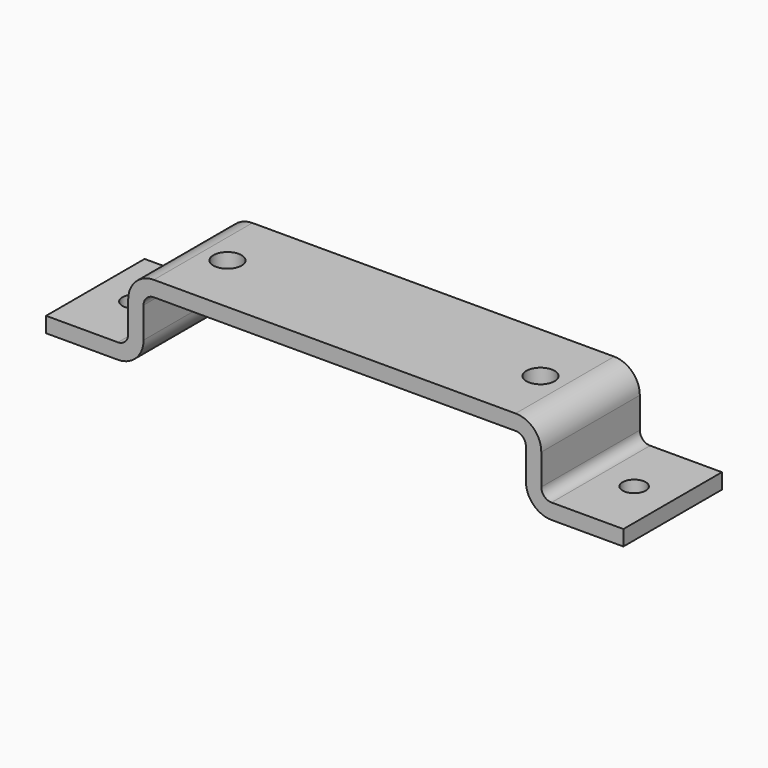
from build123d import *

# Parameters (mm, degrees)
F1_DEPTH = 38.1
F2_R     = 6.35
F3_R     = 15.875
F4_R     = 8.73125
F5_DEPTH = 25.4
F6_R     = 7.14375
F7_DEPTH = 25.4


with BuildPart() as f1:
    # F0 (on Front) → F1 (new body, symmetric)
    with BuildSketch(Plane.XZ):
        Polygon((-178.59375, -15.875), (-178.59375, -25.4), (-118.26875, -25.4), (-118.26875, 15.875), (118.26875, 15.875), (118.26875, -25.4), (178.59375, -25.4), (178.59375, -15.875), (127.79375, -15.875), (127.79375, 25.4), (-127.79375, 25.4), (-127.79375, -15.875), align=None)
    extrude(amount=F1_DEPTH, both=True)

    # F2
    f2_edges = [f1.edges().sort_by_distance(p)[0] for p in [
        (-127.79375, 0, -15.875),
        (-118.26875, 0, 15.875),
        (118.26875, 0, 15.875),
        (127.79375, 0, -15.875),
    ]]
    fillet(f2_edges, radius=F2_R)

    # F3
    f3_edges = [f1.edges().sort_by_distance(p)[0] for p in [
        (-127.79375, 0, 25.4),
        (127.79375, 0, 25.4),
        (118.26875, 0, -25.4),
        (-118.26875, 0, -25.4),
    ]]
    fillet(f3_edges, radius=F3_R)

    # F4 (on face) → F5 (cut)
    with BuildSketch(Plane.XY.offset(25.4)):
        with Locations((-96.8375, 0)):
            Circle(F4_R)
        with Locations((96.8375, 0)):
            Circle(F4_R)
    extrude(amount=-F5_DEPTH, mode=Mode.SUBTRACT)

    # F6 (on face) → F7 (cut)
    with BuildSketch(Plane.XY.offset(-15.875)):
        with Locations((-154.78125, 0)):
            Circle(F6_R)
        with Locations((154.78125, 0)):
            Circle(F6_R)
    extrude(amount=-F7_DEPTH, mode=Mode.SUBTRACT)


solid = f1.part
